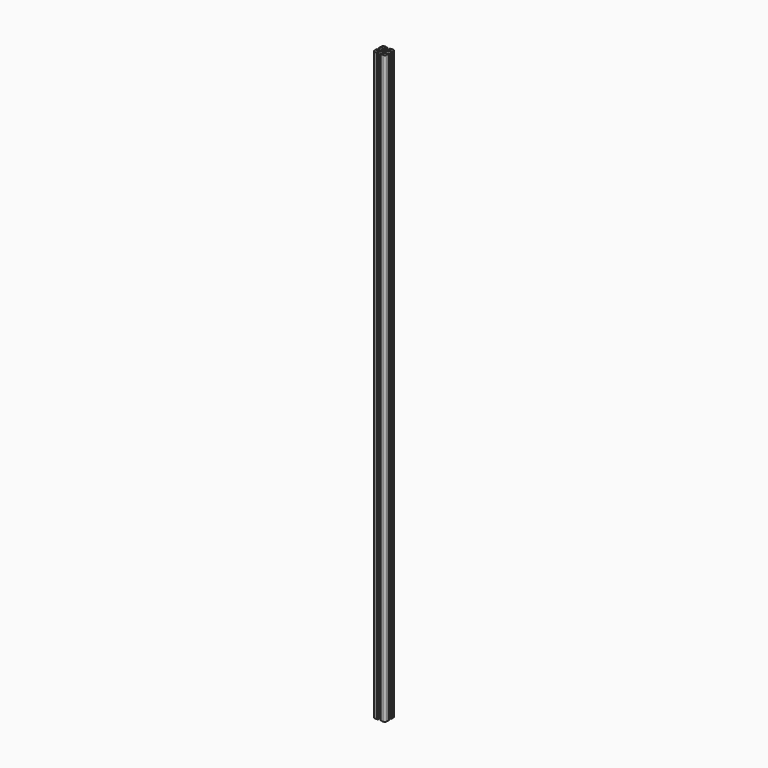
from build123d import *

# Parameters (mm, degrees)
F0_R     = 3.362501
F1_DEPTH = 1219.2


with BuildPart() as f1:
    # F0 (on Top) → F1 (new body)
    with BuildSketch(Plane.XY):
        with BuildLine():
            ThreePointArc((-8.548576, 18.755238), (-9.784629, 17.929334), (-11.242653, 17.639315))
            Line((-11.242653, 17.639315), (-14.157347, 17.639315))
            ThreePointArc((-14.157347, 17.639315), (-15.615371, 17.929334), (-16.851424, 18.755238))
            Line((-16.851424, 18.755238), (-18.696905, 20.600719))
            ThreePointArc((-18.696905, 20.600719), (-19.109857, 22.67677), (-17.349867, 23.852758))
            Line((-17.349867, 23.852758), (-15.615371, 23.852758))
            Line((-15.615371, 23.852758), (-15.58302, 23.852758))
            ThreePointArc((-15.58302, 23.852758), (-14.825405, 24.626379), (-15.58302, 25.4))
            Line((-15.58302, 25.4), (-15.615371, 25.4))
            Line((-15.615371, 25.4), (-16.253341, 25.4))
            ThreePointArc((-16.253341, 25.4), (-16.801604, 24.858772), (-17.349867, 25.4))
            Line((-17.349867, 25.4), (-20.487482, 25.4))
            ThreePointArc((-20.487482, 25.4), (-21.038741, 24.848741), (-21.59, 25.4))
            ThreePointArc((-21.59, 25.4), (-24.284077, 24.284077), (-25.4, 21.59))
            Line((-25.4, 21.59), (-25.4, 20.504724))
            Line((-25.4, 20.504724), (-25.4, 17.349867))
            ThreePointArc((-25.4, 17.349867), (-24.844161, 16.802675), (-25.4, 16.255483))
            Line((-25.4, 16.255483), (-25.4, 15.615371))
            ThreePointArc((-25.4, 15.615371), (-24.626379, 14.859554), (-23.852758, 15.615371))
            Line((-23.852758, 15.615371), (-23.852758, 17.349867))
            ThreePointArc((-23.852758, 17.349867), (-22.67677, 19.109857), (-20.600719, 18.696905))
            Line((-20.600719, 18.696905), (-18.755238, 16.851424))
            ThreePointArc((-18.755238, 16.851424), (-17.929334, 15.615371), (-17.639315, 14.157347))
            Line((-17.639315, 14.157347), (-17.639315, 11.242653))
            ThreePointArc((-17.639315, 11.242653), (-17.929334, 9.784629), (-18.755238, 8.548576))
            Line((-18.755238, 8.548576), (-20.600719, 6.703095))
            ThreePointArc((-20.600719, 6.703095), (-22.67677, 6.290143), (-23.852758, 8.050133))
            Line((-23.852758, 8.050133), (-23.852758, 9.784629))
            ThreePointArc((-23.852758, 9.784629), (-24.626379, 10.55825), (-25.4, 9.784629))
            Line((-25.4, 9.784629), (-25.4, 9.149239))
            ThreePointArc((-25.4, 9.149239), (-24.899374, 8.599686), (-25.4, 8.050133))
            Line((-25.4, 8.050133), (-25.4, 4.904538))
            ThreePointArc((-25.4, 4.904538), (-24.846216, 4.357269), (-25.4, 3.81))
            ThreePointArc((-25.4, 3.81), (-24.284077, 1.115923), (-21.59, 0))
            ThreePointArc((-21.59, 0), (-21.040817, 0.554885), (-20.491634, 0))
            Line((-20.491634, 0), (-16.708169, 0))
            ThreePointArc((-16.708169, 0), (-16.16177, 0.540135), (-15.615371, 0))
            ThreePointArc((-15.615371, 0), (-14.854184, 0.7747), (-15.615371, 1.5494))
            Line((-15.615371, 1.5494), (-17.347709, 1.5494))
            ThreePointArc((-17.347709, 1.5494), (-19.107699, 2.725388), (-18.694747, 4.801438))
            Line((-18.694747, 4.801438), (-16.851424, 6.644762))
            ThreePointArc((-16.851424, 6.644762), (-15.615371, 7.470666), (-14.157347, 7.760685))
            Line((-14.157347, 7.760685), (-11.242653, 7.760685))
            ThreePointArc((-11.242653, 7.760685), (-9.784629, 7.470666), (-8.548576, 6.644762))
            Line((-8.548576, 6.644762), (-6.705253, 4.801438))
            ThreePointArc((-6.705253, 4.801438), (-6.292301, 2.725388), (-8.052291, 1.5494))
            Line((-8.052291, 1.5494), (-9.784629, 1.5494))
            ThreePointArc((-9.784629, 1.5494), (-10.401836, 0.7747), (-9.784629, 0))
            Line((-9.784629, 0), (-9.152868, 0))
            ThreePointArc((-9.152868, 0), (-8.602579, 0.545262), (-8.052291, 0))
            Line((-8.052291, 0), (-4.898866, 0))
            ThreePointArc((-4.898866, 0), (-4.354433, 0.544433), (-3.81, 0))
            ThreePointArc((-3.81, 0), (-1.115923, 1.115923), (0, 3.81))
            ThreePointArc((0, 3.81), (-0.53938, 4.3561), (0, 4.9022))
            Line((0, 4.9022), (0, 8.052291))
            ThreePointArc((0, 8.052291), (-0.543517, 8.60166), (0, 9.151029))
            Line((0, 9.151029), (0, 9.784629))
            ThreePointArc((0, 9.784629), (-0.7747, 10.504691), (-1.5494, 9.784629))
            Line((-1.5494, 9.784629), (-1.5494, 8.052291))
            ThreePointArc((-1.5494, 8.052291), (-2.725388, 6.292301), (-4.801438, 6.705253))
            Line((-4.801438, 6.705253), (-6.644762, 8.548576))
            ThreePointArc((-6.644762, 8.548576), (-7.470666, 9.784629), (-7.760685, 11.242653))
            Line((-7.760685, 11.242653), (-7.760685, 14.157347))
            ThreePointArc((-7.760685, 14.157347), (-7.470666, 15.615371), (-6.644762, 16.851424))
            Line((-6.644762, 16.851424), (-4.801438, 18.694747))
            ThreePointArc((-4.801438, 18.694747), (-2.725388, 19.107699), (-1.5494, 17.347709))
            Line((-1.5494, 17.347709), (-1.5494, 15.615371))
            ThreePointArc((-1.5494, 15.615371), (-0.7747, 14.879405), (0, 15.615371))
            Line((0, 15.615371), (0, 16.255509))
            ThreePointArc((0, 16.255509), (-0.5461, 16.801609), (0, 17.347709))
            Line((0, 17.347709), (0, 20.495165))
            ThreePointArc((0, 20.495165), (-0.551056, 21.042583), (0, 21.59))
            ThreePointArc((0, 21.59), (-1.115923, 24.284077), (-3.81, 25.4))
            ThreePointArc((-3.81, 25.4), (-4.365303, 24.903619), (-4.920606, 25.4))
            Line((-4.920606, 25.4), (-8.050133, 25.4))
            ThreePointArc((-8.050133, 25.4), (-8.596365, 24.859433), (-9.142596, 25.4))
            Line((-9.142596, 25.4), (-9.784629, 25.4))
            Line((-9.784629, 25.4), (-9.856203, 25.4))
            ThreePointArc((-9.856203, 25.4), (-10.594864, 24.626379), (-9.856203, 23.852758))
            Line((-9.856203, 23.852758), (-9.784629, 23.852758))
            Line((-9.784629, 23.852758), (-8.050133, 23.852758))
            ThreePointArc((-8.050133, 23.852758), (-6.290143, 22.67677), (-6.703095, 20.600719))
            Line((-6.703095, 20.600719), (-8.548576, 18.755238))
        make_face()
        with Locations((-12.7, 12.7)):
            Circle(F0_R, mode=Mode.SUBTRACT)
        with BuildLine():
            ThreePointArc((-9.856203, 23.852758), (-9.820416, 23.851931), (-9.784629, 23.852758))
            Line((-9.784629, 23.852758), (-9.856203, 23.852758))
        make_face()
        with BuildLine():
            Line((-15.58302, 23.852758), (-15.615371, 23.852758))
            ThreePointArc((-15.615371, 23.852758), (-15.599195, 23.852589), (-15.58302, 23.852758))
        make_face()
        with BuildLine():
            ThreePointArc((-9.784629, 25.4), (-9.820416, 25.400827), (-9.856203, 25.4))
            Line((-9.856203, 25.4), (-9.784629, 25.4))
        make_face()
        with BuildLine():
            Line((-15.615371, 25.4), (-15.58302, 25.4))
            ThreePointArc((-15.58302, 25.4), (-15.599195, 25.400169), (-15.615371, 25.4))
        make_face()
    extrude(amount=F1_DEPTH)


solid = f1.part
